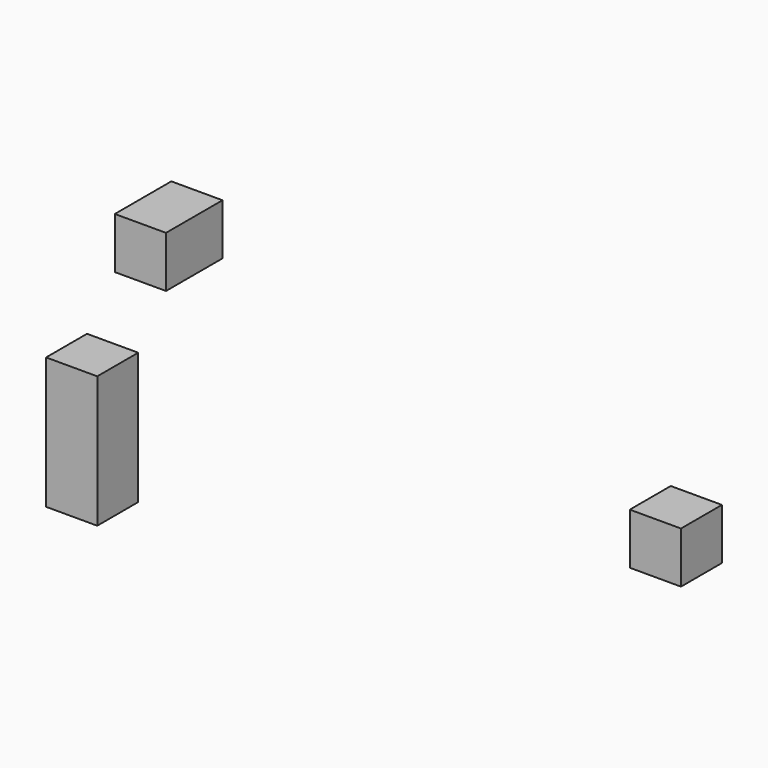
from build123d import *

# Parameters (mm, degrees)
F0_W     = 25.4
F0_H     = 25.4
F1_DEPTH = 35.052
F2_W     = 25.4
F2_H     = 25.4
F3_DEPTH = 65.278
F4_W     = 25.4
F4_H     = 25.4
F5_DEPTH = 25.4


with BuildPart() as f1:
    # F0 (on Front) → F1 (new body)
    with BuildSketch(Plane.XZ):
        with Locations((-110.948767, 40.346026)):
            Rectangle(F0_W, F0_H)
    extrude(amount=F1_DEPTH)


with BuildPart() as f3:
    # F2 (on Top) → F3 (new body)
    with BuildSketch(Plane.XY):
        with Locations((-120.190416, -53.437876)):
            Rectangle(F2_W, F2_H)
    extrude(amount=-F3_DEPTH)


with BuildPart() as f5:
    # F4 (on Front) → F5 (new body)
    with BuildSketch(Plane.XZ):
        with Locations((136.904676, -12.149947)):
            Rectangle(F4_W, F4_H)
    extrude(amount=F5_DEPTH)


solid = Compound([f1.part, f3.part, f5.part])
